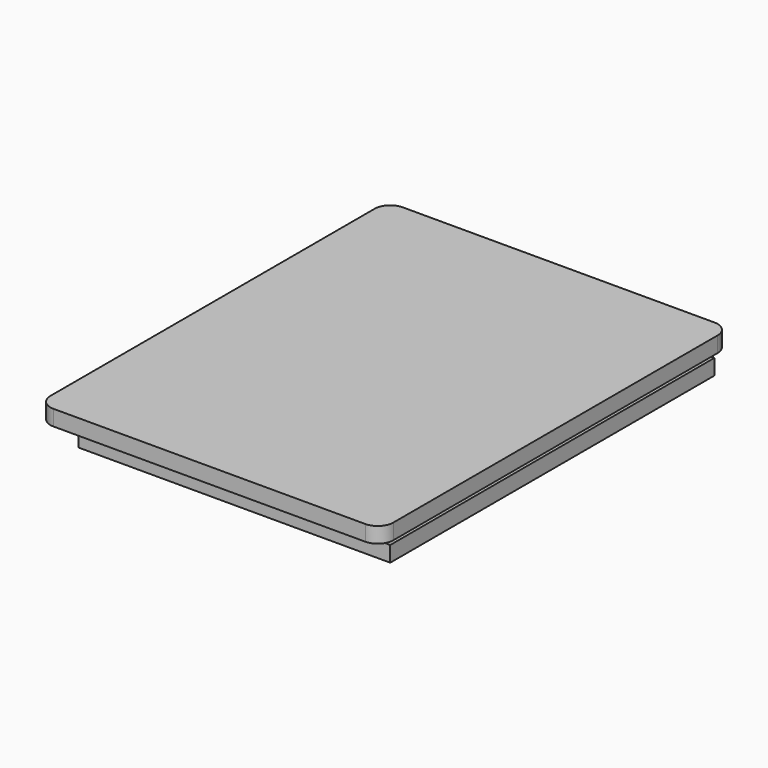
from build123d import *

# Parameters (mm, degrees)
F1_DEPTH = 15
F2_W     = 5
F2_H     = 5
F3_DEPTH = 70
F5_DEPTH = 10


with BuildPart() as f1:
    # F0 (on Top) → F1 (new body)
    with BuildSketch(Plane.XY):
        with BuildLine():
            ThreePointArc((55, 65), (53.535534, 68.535534), (50, 70))
            Line((50, 70), (-50, 70))
            ThreePointArc((-50, 70), (-53.535534, 68.535534), (-55, 65))
            Line((-55, 65), (-55, -65))
            ThreePointArc((-55, -65), (-53.535534, -68.535534), (-50, -70))
            Line((-50, -70), (50, -70))
            ThreePointArc((50, -70), (53.535534, -68.535534), (55, -65))
            Line((55, -65), (55, 65))
        make_face()
    extrude(amount=F1_DEPTH)

    # F2 (on Front) → F3 (cut, symmetric)
    with BuildSketch(Plane.XZ):
        Polygon((-50, 5), (-45, 5), (-45, 10), (-55, 10), (-55, 5), align=None)
        with Locations((-52.5, 2.5)):
            Rectangle(F2_W, F2_H)
        with Locations((52.5, 2.5)):
            Rectangle(F2_W, F2_H)
        Polygon((50, 5), (55, 5), (55, 10), (45, 10), (45, 5), align=None)
    extrude(amount=F3_DEPTH, both=True, mode=Mode.SUBTRACT)

    # F4 (on face) → F5 (cut)
    with BuildSketch(Plane.XZ.offset(70)):
        Polygon((-50, 0), (50, 0), (50, 5), (45, 5), (45, 10), (-45, 10), (-45, 5), (-50, 5), align=None)
    extrude(amount=-F5_DEPTH, mode=Mode.SUBTRACT)


solid = f1.part
